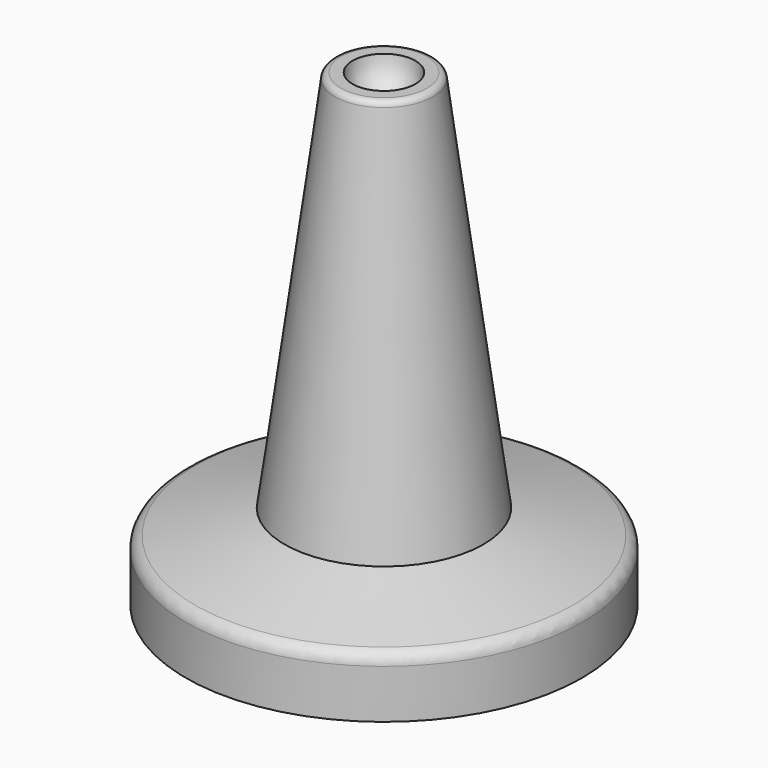
from build123d import *

# Parameters (mm, degrees)
F2_R = 1.016
F3_R = 0.508


with BuildPart() as f1:
    # F0 (on Front) → F1 (revolve)
    with BuildSketch(Plane.XZ):
        with BuildLine():
            Line((0, 35.306), (0, 0))
            Line((0, 0), (16.002, 0))
            Line((16.002, 0), (16.002, 4.7244))
            Line((16.002, 4.7244), (8.0264, 6.8961))
            Line((8.0264, 6.8961), (3.9116, 37.846))
            Line((3.9116, 37.846), (2.54, 37.846))
            ThreePointArc((2.54, 37.846), (1.796051, 36.049949), (0, 35.306))
        make_face()
    revolve(axis=Axis((0, 0, 17.653), (0, 0, -1)))

    # F2
    f2_edges = [f1.edges().sort_by_distance(p)[0] for p in [
        (-16.002, 0, 4.7244),
    ]]
    fillet(f2_edges, radius=F2_R)

    # F3
    f3_edges = [f1.edges().sort_by_distance(p)[0] for p in [
        (-3.9116, 0, 37.846),
    ]]
    fillet(f3_edges, radius=F3_R)


solid = f1.part
